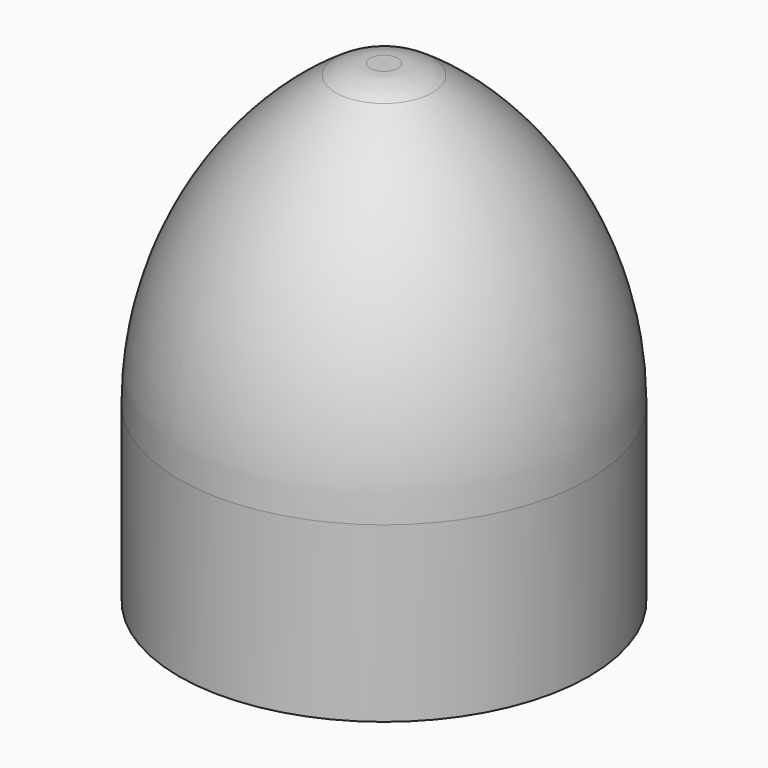
from build123d import *

# Parameters (mm, degrees)
F2_R     = 5.08
F3_R     = 6.35
F4_DEPTH = 12.7


with BuildPart() as f1:
    # F0 (on Front) → F1 (revolve)
    with BuildSketch(Plane.XZ):
        with BuildLine():
            Line((0, 38.1), (0, 0))
            Line((0, 0), (16.51, 0))
            Line((16.51, 0), (16.51, 13.97))
            ThreePointArc((16.51, 13.97), (12.765548, 27.911106), (2.54, 38.1))
            Line((2.54, 38.1), (0, 38.1))
        make_face()
    revolve(axis=Axis((0, 0, 19.05), (0, 0, 1)))

    # F2
    f2_edges = [f1.edges().sort_by_distance(p)[0] for p in [
        (-2.54, 0, 38.1),
    ]]
    fillet(f2_edges, radius=F2_R)

    # F3 (on face) → F4 (cut)
    with BuildSketch(Plane(origin=(0, 0, 0), x_dir=(1, 0, 0), z_dir=(0, 0, -1))):
        Circle(F3_R)
    extrude(amount=-F4_DEPTH, mode=Mode.SUBTRACT)


solid = f1.part
